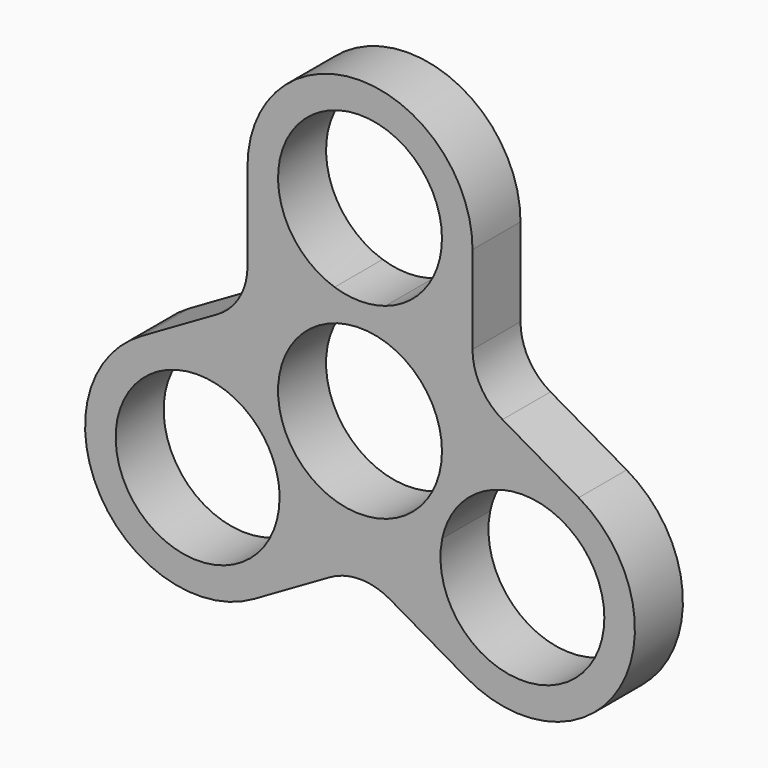
from build123d import *

# Parameters (mm, degrees)
F0_R     = 10.925
F1_DEPTH = 8


with BuildPart() as f1:
    # F0 (on Front) → F1 (new body)
    with BuildSketch(Plane.XZ):
        with BuildLine():
            ThreePointArc((-289.854455, -30.802226), (-304.854455, -15.802226), (-319.854455, -30.802226))
            Line((-319.854455, -30.802226), (-319.854455, -42.52317))
            ThreePointArc((-319.854455, -42.52317), (-320.926251, -46.52317), (-323.854455, -49.451373))
            Line((-323.854455, -49.451373), (-334.00509, -55.311845))
            ThreePointArc((-334.00509, -55.311845), (-339.495471, -75.802226), (-319.00509, -81.292608))
            Line((-319.00509, -81.292608), (-308.854455, -75.432136))
            ThreePointArc((-308.854455, -75.432136), (-304.854455, -74.360339), (-300.854455, -75.432136))
            Line((-300.854455, -75.432136), (-290.703819, -81.292608))
            ThreePointArc((-290.703819, -81.292608), (-270.213438, -75.802226), (-275.703819, -55.311845))
            Line((-275.703819, -55.311845), (-285.854455, -49.451373))
            ThreePointArc((-285.854455, -49.451373), (-288.782658, -46.52317), (-289.854455, -42.52317))
            Line((-289.854455, -42.52317), (-289.854455, -30.802226))
        make_face()
        with BuildLine():
            ThreePointArc((-308.240236, -41.189339), (-311.271851, -21.960697), (-293.929455, -30.802226))
            ThreePointArc((-293.929455, -30.802226), (-296.012925, -37.219623), (-301.468673, -41.189339))
            ThreePointArc((-301.468673, -41.189339), (-299.351438, -41.84813), (-297.354455, -42.811845))
            ThreePointArc((-297.354455, -42.811845), (-291.864074, -48.302226), (-289.854455, -55.802226))
            ThreePointArc((-289.854455, -55.802226), (-290.018344, -58.013522), (-290.506432, -60.176497))
            ThreePointArc((-290.506432, -60.176497), (-278.755529, -58.323833), (-272.278819, -68.302226))
            ThreePointArc((-272.278819, -68.302226), (-284.340683, -79.167914), (-293.892214, -66.040843))
            ThreePointArc((-293.892214, -66.040843), (-295.521361, -67.545027), (-297.354455, -68.792608))
            ThreePointArc((-297.354455, -68.792608), (-304.854455, -70.802226), (-312.354455, -68.792608))
            ThreePointArc((-312.354455, -68.792608), (-314.187548, -67.545027), (-315.816695, -66.040843))
            ThreePointArc((-315.816695, -66.040843), (-315.639402, -67.165363), (-315.58009, -68.302226))
            ThreePointArc((-315.58009, -68.302226), (-336.483483, -72.750517), (-319.202477, -60.176497))
            ThreePointArc((-319.202477, -60.176497), (-319.690565, -58.013522), (-319.854455, -55.802226))
            ThreePointArc((-319.854455, -55.802226), (-317.844836, -48.302226), (-312.354455, -42.811845))
            ThreePointArc((-312.354455, -42.811845), (-310.357471, -41.84813), (-308.240236, -41.189339))
        make_face(mode=Mode.SUBTRACT)
        with BuildLine():
            ThreePointArc((-301.468673, -41.189339), (-304.854455, -41.727226), (-308.240236, -41.189339))
            ThreePointArc((-308.240236, -41.189339), (-310.357471, -41.84813), (-312.354455, -42.811845))
            ThreePointArc((-312.354455, -42.811845), (-317.844836, -48.302226), (-319.854455, -55.802226))
            ThreePointArc((-319.854455, -55.802226), (-319.690565, -58.013522), (-319.202477, -60.176497))
            ThreePointArc((-319.202477, -60.176497), (-317.043762, -62.839726), (-315.816695, -66.040843))
            ThreePointArc((-315.816695, -66.040843), (-314.187548, -67.545027), (-312.354455, -68.792608))
            ThreePointArc((-312.354455, -68.792608), (-304.854455, -70.802226), (-297.354455, -68.792608))
            ThreePointArc((-297.354455, -68.792608), (-295.521361, -67.545027), (-293.892214, -66.040843))
            ThreePointArc((-293.892214, -66.040843), (-292.665147, -62.839726), (-290.506432, -60.176497))
            ThreePointArc((-290.506432, -60.176497), (-290.018344, -58.013522), (-289.854455, -55.802226))
            ThreePointArc((-289.854455, -55.802226), (-291.864074, -48.302226), (-297.354455, -42.811845))
            ThreePointArc((-297.354455, -42.811845), (-299.351438, -41.84813), (-301.468673, -41.189339))
        make_face()
        with Locations((-304.854455, -55.802226)):
            Circle(F0_R, mode=Mode.SUBTRACT)
    extrude(amount=F1_DEPTH)


solid = f1.part
